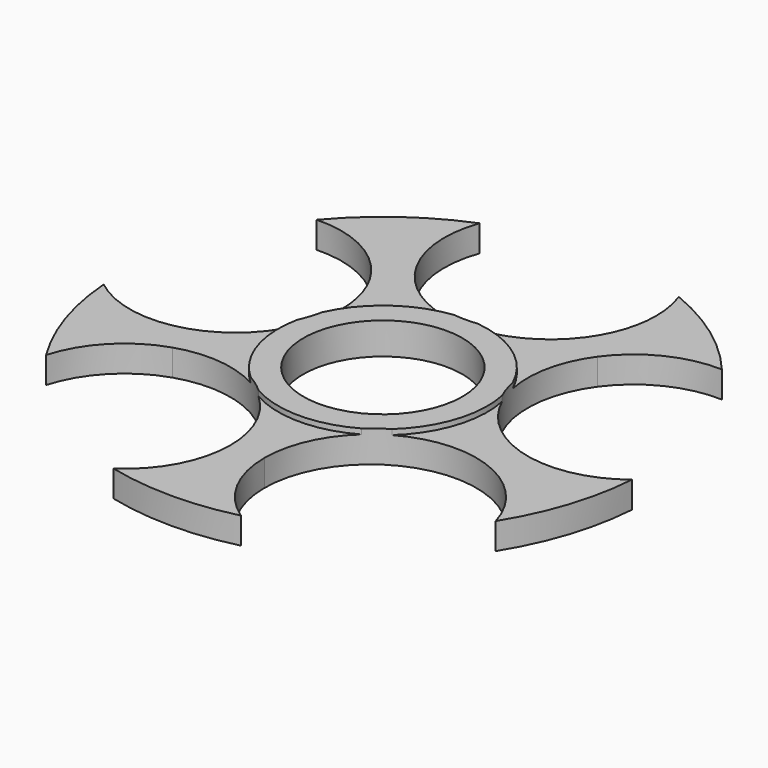
from build123d import *

# Parameters (mm, degrees)
F0_R     = 60
F1_DEPTH = 5
F2_R     = 19.75
F3_DEPTH = 1
F4_DEPTH = 25
F5_R     = 60
F6_DEPTH = 25
F7_R     = 15
F8_DEPTH = 25


with BuildPart() as f1:
    # F0 (on Top) → F1 (new body)
    with BuildSketch(Plane.XY):
        Circle(F0_R)
        with BuildLine():
            ThreePointArc((57.5667323937, 12.2061712778), (49.3224374395, -3.9741686097), (31.3863925062, -6.8149590481))
            Line((31.3863925062, -6.8149590481), (29.3978573531, -12.9350409519))
            ThreePointArc((29.3978573531, -12.9350409519), (39.3978573531, -20.200466232), (43.2175174656, -31.9561712778))
            ThreePointArc((43.2175174656, -31.9561712778), (23.2175174656, -51.9561712778), (3.2175174656, -31.9561712778))
            Line((3.2175174656, -31.9561712778), (-3.2175174656, -31.9561712778))
            ThreePointArc((-3.2175174656, -31.9561712778), (-34.9732225114, -48.1365111653), (-29.3978573531, -12.9350409519))
            Line((-29.3978573531, -12.9350409519), (-31.3863925062, -6.8149590481))
            ThreePointArc((-31.3863925062, -6.8149590481), (-56.5878627196, 18.3865111653), (-21.3863925062, 23.9618763237))
            Line((-21.3863925062, 23.9618763237), (-16.1803398875, 27.7442949542))
            ThreePointArc((-16.1803398875, 27.7442949542), (-6.1803398875, 58.5211303259), (20, 39.5))
            ThreePointArc((20, 39.5), (19.0211303259, 33.3196601125), (16.1803398875, 27.7442949542))
            Line((16.1803398875, 27.7442949542), (21.3863925062, 23.9618763237))
            ThreePointArc((21.3863925062, 23.9618763237), (43.7470722812, 31.2273016037), (57.5667323937, 12.2061712778))
        make_face(mode=Mode.SUBTRACT)
        with BuildLine():
            Line((-37.5667323937, 12.2061712778), (-21.3863925062, 23.9618763237))
            ThreePointArc((-21.3863925062, 23.9618763237), (-56.5878627196, 18.3865111653), (-31.3863925062, -6.8149590481))
            Line((-31.3863925062, -6.8149590481), (-37.5667323937, 12.2061712778))
        make_face()
        with BuildLine():
            ThreePointArc((-17.5667323937, 12.2061712778), (-18.5456020678, 18.3865111653), (-21.3863925062, 23.9618763237))
            Line((-21.3863925062, 23.9618763237), (-37.5667323937, 12.2061712778))
            Line((-37.5667323937, 12.2061712778), (-31.3863925062, -6.8149590481))
            ThreePointArc((-31.3863925062, -6.8149590481), (-21.3863925062, 0.450466232), (-17.5667323937, 12.2061712778))
        make_face()
        with BuildLine():
            ThreePointArc((-29.3978573531, -12.9350409519), (-34.9732225114, -48.1365111653), (-3.2175174656, -31.9561712778))
            Line((-3.2175174656, -31.9561712778), (-23.2175174656, -31.9561712778))
            Line((-23.2175174656, -31.9561712778), (-29.3978573531, -12.9350409519))
        make_face()
        with BuildLine():
            Line((-23.2175174656, -31.9561712778), (-3.2175174656, -31.9561712778))
            ThreePointArc((-3.2175174656, -31.9561712778), (-11.4618124197, -15.7758313903), (-29.3978573531, -12.9350409519))
            Line((-29.3978573531, -12.9350409519), (-23.2175174656, -31.9561712778))
        make_face()
        with BuildLine():
            ThreePointArc((43.2175174656, -31.9561712778), (39.3978573531, -20.200466232), (29.3978573531, -12.9350409519))
            Line((29.3978573531, -12.9350409519), (23.2175174656, -31.9561712778))
            Line((23.2175174656, -31.9561712778), (3.2175174656, -31.9561712778))
            ThreePointArc((3.2175174656, -31.9561712778), (23.2175174656, -51.9561712778), (43.2175174656, -31.9561712778))
        make_face()
        with BuildLine():
            Line((23.2175174656, -31.9561712778), (29.3978573531, -12.9350409519))
            ThreePointArc((29.3978573531, -12.9350409519), (11.4618124197, -15.7758313903), (3.2175174656, -31.9561712778))
            Line((3.2175174656, -31.9561712778), (23.2175174656, -31.9561712778))
        make_face()
        with BuildLine():
            Line((29.3978573531, -12.9350409519), (31.3863925062, -6.8149590481))
            ThreePointArc((31.3863925062, -6.8149590481), (18.5456020678, 6.0258313903), (21.3863925062, 23.9618763237))
            Line((21.3863925062, 23.9618763237), (16.1803398875, 27.7442949542))
            ThreePointArc((16.1803398875, 27.7442949542), (0, 19.5), (-16.1803398875, 27.7442949542))
            Line((-16.1803398875, 27.7442949542), (-21.3863925062, 23.9618763237))
            ThreePointArc((-21.3863925062, 23.9618763237), (-18.5456020678, 18.3865111653), (-17.5667323937, 12.2061712778))
            ThreePointArc((-17.5667323937, 12.2061712778), (-21.3863925062, 0.450466232), (-31.3863925062, -6.8149590481))
            Line((-31.3863925062, -6.8149590481), (-29.3978573531, -12.9350409519))
            ThreePointArc((-29.3978573531, -12.9350409519), (-11.4618124197, -15.7758313903), (-3.2175174656, -31.9561712778))
            Line((-3.2175174656, -31.9561712778), (3.2175174656, -31.9561712778))
            ThreePointArc((3.2175174656, -31.9561712778), (11.4618124197, -15.7758313903), (29.3978573531, -12.9350409519))
        make_face()
        with BuildLine():
            Line((31.3863925062, -6.8149590481), (37.5667323937, 12.2061712778))
            Line((37.5667323937, 12.2061712778), (21.3863925062, 23.9618763237))
            ThreePointArc((21.3863925062, 23.9618763237), (18.5456020678, 6.0258313903), (31.3863925062, -6.8149590481))
        make_face()
        with BuildLine():
            Line((21.3863925062, 23.9618763237), (37.5667323937, 12.2061712778))
            Line((37.5667323937, 12.2061712778), (31.3863925062, -6.8149590481))
            ThreePointArc((31.3863925062, -6.8149590481), (49.3224374395, -3.9741686097), (57.5667323937, 12.2061712778))
            ThreePointArc((57.5667323937, 12.2061712778), (43.7470722812, 31.2273016037), (21.3863925062, 23.9618763237))
        make_face()
        with BuildLine():
            ThreePointArc((-16.1803398875, 27.7442949542), (0, 19.5), (16.1803398875, 27.7442949542))
            Line((16.1803398875, 27.7442949542), (0, 39.5))
            Line((0, 39.5), (-16.1803398875, 27.7442949542))
        make_face()
        with BuildLine():
            Line((0, 39.5), (16.1803398875, 27.7442949542))
            ThreePointArc((16.1803398875, 27.7442949542), (19.0211303259, 33.3196601125), (20, 39.5))
            ThreePointArc((20, 39.5), (-6.1803398875, 58.5211303259), (-16.1803398875, 27.7442949542))
            Line((-16.1803398875, 27.7442949542), (0, 39.5))
        make_face()
    extrude(amount=F1_DEPTH)

    # F2 (on face) → F3 (join)
    with BuildSketch(Plane.XY.offset(5)):
        Circle(F2_R)
    extrude(amount=F3_DEPTH)

    # F0 (on Top) → F4 (cut)
    with BuildSketch(Plane.XY):
        with BuildLine():
            ThreePointArc((-29.3978573531, -12.9350409519), (-34.9732225114, -48.1365111653), (-3.2175174656, -31.9561712778))
            Line((-3.2175174656, -31.9561712778), (-23.2175174656, -31.9561712778))
            Line((-23.2175174656, -31.9561712778), (-29.3978573531, -12.9350409519))
        make_face()
        with BuildLine():
            Line((-23.2175174656, -31.9561712778), (-3.2175174656, -31.9561712778))
            ThreePointArc((-3.2175174656, -31.9561712778), (-11.4618124197, -15.7758313903), (-29.3978573531, -12.9350409519))
            Line((-29.3978573531, -12.9350409519), (-23.2175174656, -31.9561712778))
        make_face()
        with BuildLine():
            ThreePointArc((43.2175174656, -31.9561712778), (39.3978573531, -20.200466232), (29.3978573531, -12.9350409519))
            Line((29.3978573531, -12.9350409519), (23.2175174656, -31.9561712778))
            Line((23.2175174656, -31.9561712778), (3.2175174656, -31.9561712778))
            ThreePointArc((3.2175174656, -31.9561712778), (23.2175174656, -51.9561712778), (43.2175174656, -31.9561712778))
        make_face()
        with BuildLine():
            Line((23.2175174656, -31.9561712778), (29.3978573531, -12.9350409519))
            ThreePointArc((29.3978573531, -12.9350409519), (11.4618124197, -15.7758313903), (3.2175174656, -31.9561712778))
            Line((3.2175174656, -31.9561712778), (23.2175174656, -31.9561712778))
        make_face()
        with BuildLine():
            Line((21.3863925062, 23.9618763237), (37.5667323937, 12.2061712778))
            Line((37.5667323937, 12.2061712778), (31.3863925062, -6.8149590481))
            ThreePointArc((31.3863925062, -6.8149590481), (49.3224374395, -3.9741686097), (57.5667323937, 12.2061712778))
            ThreePointArc((57.5667323937, 12.2061712778), (43.7470722812, 31.2273016037), (21.3863925062, 23.9618763237))
        make_face()
        with BuildLine():
            Line((31.3863925062, -6.8149590481), (37.5667323937, 12.2061712778))
            Line((37.5667323937, 12.2061712778), (21.3863925062, 23.9618763237))
            ThreePointArc((21.3863925062, 23.9618763237), (18.5456020678, 6.0258313903), (31.3863925062, -6.8149590481))
        make_face()
        with BuildLine():
            ThreePointArc((-16.1803398875, 27.7442949542), (0, 19.5), (16.1803398875, 27.7442949542))
            Line((16.1803398875, 27.7442949542), (0, 39.5))
            Line((0, 39.5), (-16.1803398875, 27.7442949542))
        make_face()
        with BuildLine():
            Line((0, 39.5), (16.1803398875, 27.7442949542))
            ThreePointArc((16.1803398875, 27.7442949542), (19.0211303259, 33.3196601125), (20, 39.5))
            ThreePointArc((20, 39.5), (-6.1803398875, 58.5211303259), (-16.1803398875, 27.7442949542))
            Line((-16.1803398875, 27.7442949542), (0, 39.5))
        make_face()
        with BuildLine():
            Line((-37.5667323937, 12.2061712778), (-21.3863925062, 23.9618763237))
            ThreePointArc((-21.3863925062, 23.9618763237), (-56.5878627196, 18.3865111653), (-31.3863925062, -6.8149590481))
            Line((-31.3863925062, -6.8149590481), (-37.5667323937, 12.2061712778))
        make_face()
        with BuildLine():
            ThreePointArc((-17.5667323937, 12.2061712778), (-18.5456020678, 18.3865111653), (-21.3863925062, 23.9618763237))
            Line((-21.3863925062, 23.9618763237), (-37.5667323937, 12.2061712778))
            Line((-37.5667323937, 12.2061712778), (-31.3863925062, -6.8149590481))
            ThreePointArc((-31.3863925062, -6.8149590481), (-21.3863925062, 0.450466232), (-17.5667323937, 12.2061712778))
        make_face()
    extrude(amount=F4_DEPTH, mode=Mode.SUBTRACT)

    # F5 (on face) → F6 (cut)
    with BuildSketch(Plane.XY):
        Circle(F5_R)
        with BuildLine():
            ThreePointArc((18.7968074618, 46.332278481), (29.3892626146, 40.4508497187), (38.2560824185, 32.1942876609))
            ThreePointArc((38.2560824185, 32.1942876609), (51.9505253652, 26.1024477486), (57.5667323937, 12.2061712778))
            ThreePointArc((57.5667323937, 12.2061712778), (55.5407180163, 3.4348634598), (49.8731483099, -3.5593647834))
            ThreePointArc((49.8731483099, -3.5593647834), (47.5528258148, -15.4508497187), (42.4403666729, -26.435114463))
            ThreePointArc((42.4403666729, -26.435114463), (43.0222767944, -29.1684288351), (43.2175174656, -31.9561712778))
            ThreePointArc((43.2175174656, -31.9561712778), (32.6031319122, -49.6171520393), (12.0264933196, -48.5320868955))
            ThreePointArc((12.0264933196, -48.5320868955), (0, -50), (-12.0264933196, -48.5320868955))
            ThreePointArc((-12.0264933196, -48.5320868955), (-34.9732225114, -48.1365111653), (-42.4403666729, -26.435114463))
            ThreePointArc((-42.4403666729, -26.435114463), (-47.5528258148, -15.4508497187), (-49.8731483099, -3.5593647834))
            ThreePointArc((-49.8731483099, -3.5593647834), (-56.5878627196, 18.3865111653), (-38.2560824185, 32.1942876609))
            ThreePointArc((-38.2560824185, 32.1942876609), (-29.3892626146, 40.4508497187), (-18.7968074618, 46.332278481))
            ThreePointArc((-18.7968074619, 46.332278481), (0, 59.5), (18.7968074619, 46.332278481))
        make_face(mode=Mode.SUBTRACT)
    extrude(amount=F6_DEPTH, mode=Mode.SUBTRACT)

    # F7 (on face) → F8 (cut)
    with BuildSketch(Plane.XY.offset(6)):
        Circle(F7_R)
    extrude(amount=-F8_DEPTH, mode=Mode.SUBTRACT)


solid = f1.part
